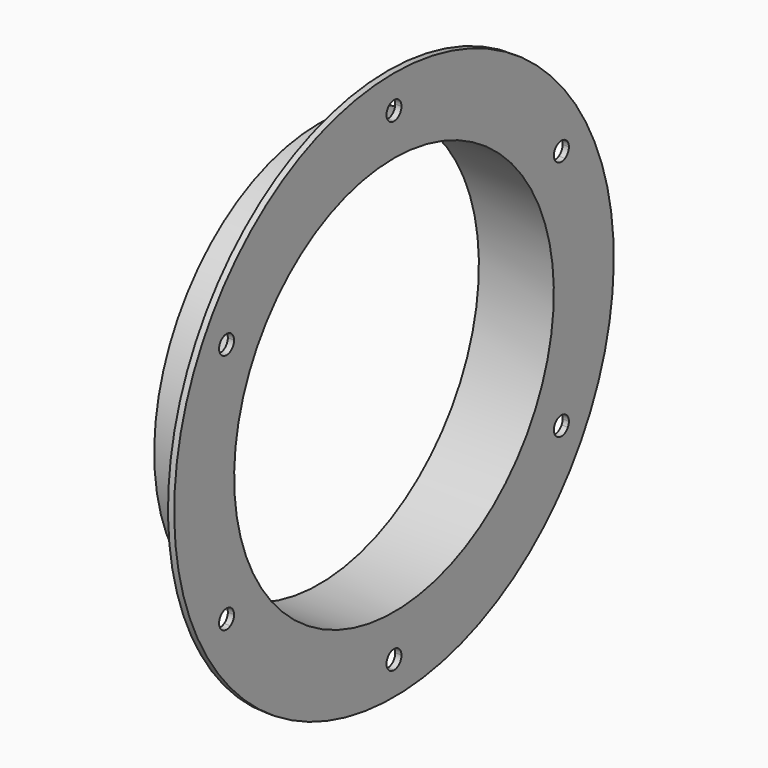
from build123d import *

# Parameters (mm, degrees)
F3_DEPTH = 25.4


with BuildPart() as f1:
    # F0 (on Front) → F1 (revolve)
    with BuildSketch(Plane.XZ):
        Polygon((-38.1, 101.6), (0, 101.6), (0, 139.7), (-3.175, 139.7), (-3.175, 104.775), (-38.1, 104.775), align=None)
    revolve(axis=Axis((-40.6781, 0, 0), (-1, 0, 0)))

    # F2 (on Right) → F3 (cut)
    with BuildSketch(Plane.YZ):
        with BuildLine():
            Line((-110.5365962259, 63.8183335863), (-106.4121502404, 61.4370835863))
            ThreePointArc((-106.4121502404, 61.4370835863), (-105.201540854, 63.4877685883), (-103.951417404, 65.5146073641))
            ThreePointArc((-103.951417404, 65.5146073641), (-107.6001407887, 66.0490337928), (-110.5365962259, 63.8183335863))
        make_face()
        with BuildLine():
            ThreePointArc((-108.7130229983, 57.2672645493), (-107.582790854, 59.3633226027), (-106.4121502404, 61.4370835863))
            Line((-106.4121502404, 61.4370835863), (-110.5365962259, 63.8183335863))
            ThreePointArc((-110.5365962259, 63.8183335863), (-111.0002115544, 60.1599384774), (-108.7130229983, 57.2672645493))
        make_face()
        with BuildLine():
            ThreePointArc((-108.7130229983, 57.2672645493), (-105.1350051315, 56.8490222724), (-102.2877042549, 59.0558335863))
            Line((-102.2877042549, 59.0558335863), (-106.4121502404, 61.4370835863))
            ThreePointArc((-106.4121502404, 61.4370835863), (-107.582790854, 59.3633226027), (-108.7130229983, 57.2672645493))
        make_face()
        with BuildLine():
            Line((-106.4121502404, 61.4370835863), (-102.2877042549, 59.0558335863))
            ThreePointArc((-102.2877042549, 59.0558335863), (-101.8119284927, 60.204457884), (-101.6496502404, 61.4370835863))
            ThreePointArc((-101.6496502404, 61.4370835863), (-102.2648230057, 63.7782548869), (-103.951417404, 65.5146073641))
            ThreePointArc((-103.951417404, 65.5146073641), (-105.201540854, 63.4877685883), (-106.4121502404, 61.4370835863))
        make_face()
        with BuildLine():
            Line((-110.5365962259, -63.8183335863), (-106.4121502404, -61.4370835863))
            ThreePointArc((-106.4121502404, -61.4370835863), (-107.582790854, -59.3633226027), (-108.7130229983, -57.2672645493))
            ThreePointArc((-108.7130229983, -57.2672645493), (-111.0002115544, -60.1599384774), (-110.5365962259, -63.8183335863))
        make_face()
        with BuildLine():
            Line((-106.4121502404, -61.4370835863), (-102.2877042549, -59.0558335863))
            ThreePointArc((-102.2877042549, -59.0558335863), (-105.1350051315, -56.8490222724), (-108.7130229983, -57.2672645493))
            ThreePointArc((-108.7130229983, -57.2672645493), (-107.582790854, -59.3633226027), (-106.4121502404, -61.4370835863))
        make_face()
        with BuildLine():
            ThreePointArc((-101.6496502404, -61.4370835863), (-101.8119284927, -60.204457884), (-102.2877042549, -59.0558335863))
            Line((-102.2877042549, -59.0558335863), (-106.4121502404, -61.4370835863))
            ThreePointArc((-106.4121502404, -61.4370835863), (-105.201540854, -63.4877685883), (-103.951417404, -65.5146073641))
            ThreePointArc((-103.951417404, -65.5146073641), (-102.2648230057, -63.7782548869), (-101.6496502404, -61.4370835863))
        make_face()
        with BuildLine():
            ThreePointArc((-103.951417404, -65.5146073641), (-105.201540854, -63.4877685883), (-106.4121502404, -61.4370835863))
            Line((-106.4121502404, -61.4370835863), (-110.5365962259, -63.8183335863))
            ThreePointArc((-110.5365962259, -63.8183335863), (-107.6001407887, -66.0490337928), (-103.951417404, -65.5146073641))
        make_face()
        with BuildLine():
            ThreePointArc((4.7625, -122.8741671727), (4.7622763933, -122.8280173762), (4.7616055942, -122.7818719133))
            ThreePointArc((4.7616055942, -122.7818719133), (2.38125, -122.851091191), (0, -122.8741671727))
            Line((0, -122.8741671727), (0, -127.6366671727))
            ThreePointArc((0, -127.6366671727), (3.3675960454, -126.2417632181), (4.7625, -122.8741671727))
        make_face()
        with BuildLine():
            ThreePointArc((4.7616055942, -122.7818719133), (3.3348050976, -119.474096407), (0, -118.1116671727))
            Line((0, -118.1116671727), (0, -122.8741671727))
            ThreePointArc((0, -122.8741671727), (2.38125, -122.851091191), (4.7616055942, -122.7818719133))
        make_face()
        with BuildLine():
            Line((0, -122.8741671727), (0, -118.1116671727))
            ThreePointArc((0, -118.1116671727), (-3.3348050976, -119.474096407), (-4.7616055942, -122.7818719133))
            ThreePointArc((-4.7616055942, -122.7818719133), (-2.38125, -122.851091191), (0, -122.8741671727))
        make_face()
        with BuildLine():
            Line((0, -127.6366671727), (0, -122.8741671727))
            ThreePointArc((0, -122.8741671727), (-2.38125, -122.851091191), (-4.7616055942, -122.7818719133))
            ThreePointArc((-4.7616055942, -122.7818719133), (-3.4000707656, -126.2089722702), (0, -127.6366671727))
        make_face()
        with BuildLine():
            ThreePointArc((106.4121502404, -61.4370835863), (107.582790854, -59.3633226027), (108.7130229983, -57.2672645493))
            ThreePointArc((108.7130229983, -57.2672645493), (105.1350051315, -56.8490222724), (102.2877042549, -59.0558335863))
            Line((102.2877042549, -59.0558335863), (106.4121502404, -61.4370835863))
        make_face()
        with BuildLine():
            ThreePointArc((111.1746502404, -61.4370835863), (110.5133276786, -59.0159784936), (108.7130229983, -57.2672645493))
            ThreePointArc((108.7130229983, -57.2672645493), (107.582790854, -59.3633226027), (106.4121502404, -61.4370835863))
            Line((106.4121502404, -61.4370835863), (110.5365962259, -63.8183335863))
            ThreePointArc((110.5365962259, -63.8183335863), (111.0123719881, -62.6697092886), (111.1746502404, -61.4370835863))
        make_face()
        with BuildLine():
            Line((110.5365962259, -63.8183335863), (106.4121502404, -61.4370835863))
            ThreePointArc((106.4121502404, -61.4370835863), (105.201540854, -63.4877685883), (103.951417404, -65.5146073641))
            ThreePointArc((103.951417404, -65.5146073641), (107.6001407887, -66.0490337928), (110.5365962259, -63.8183335863))
        make_face()
        with BuildLine():
            ThreePointArc((103.951417404, -65.5146073641), (105.201540854, -63.4877685883), (106.4121502404, -61.4370835863))
            Line((106.4121502404, -61.4370835863), (102.2877042549, -59.0558335863))
            ThreePointArc((102.2877042549, -59.0558335863), (101.8002000339, -62.6250741347), (103.951417404, -65.5146073641))
        make_face()
        with BuildLine():
            ThreePointArc((103.951417404, 65.5146073641), (105.201540854, 63.4877685883), (106.4121502404, 61.4370835863))
            Line((106.4121502404, 61.4370835863), (110.5365962259, 63.8183335863))
            ThreePointArc((110.5365962259, 63.8183335863), (107.6001407887, 66.0490337928), (103.951417404, 65.5146073641))
        make_face()
        with BuildLine():
            ThreePointArc((106.4121502404, 61.4370835863), (107.582790854, 59.3633226027), (108.7130229983, 57.2672645493))
            ThreePointArc((108.7130229983, 57.2672645493), (110.5133276786, 59.0159784936), (111.1746502404, 61.4370835863))
            ThreePointArc((111.1746502404, 61.4370835863), (111.0123719881, 62.6697092886), (110.5365962259, 63.8183335863))
            Line((110.5365962259, 63.8183335863), (106.4121502404, 61.4370835863))
        make_face()
        with BuildLine():
            ThreePointArc((102.2877042549, 59.0558335863), (105.1350051315, 56.8490222724), (108.7130229983, 57.2672645493))
            ThreePointArc((108.7130229983, 57.2672645493), (107.582790854, 59.3633226027), (106.4121502404, 61.4370835863))
            Line((106.4121502404, 61.4370835863), (102.2877042549, 59.0558335863))
        make_face()
        with BuildLine():
            Line((102.2877042549, 59.0558335863), (106.4121502404, 61.4370835863))
            ThreePointArc((106.4121502404, 61.4370835863), (105.201540854, 63.4877685883), (103.951417404, 65.5146073641))
            ThreePointArc((103.951417404, 65.5146073641), (101.8002000339, 62.6250741347), (102.2877042549, 59.0558335863))
        make_face()
        with BuildLine():
            ThreePointArc((0, 122.8741671727), (2.38125, 122.851091191), (4.7616055942, 122.7818719133))
            ThreePointArc((4.7616055942, 122.7818719133), (4.7622763933, 122.8280173762), (4.7625, 122.8741671727))
            ThreePointArc((4.7625, 122.8741671727), (3.3675960454, 126.2417632181), (0, 127.6366671727))
            Line((0, 127.6366671727), (0, 122.8741671727))
        make_face()
        with BuildLine():
            ThreePointArc((-4.7616055942, 122.7818719133), (-2.38125, 122.851091191), (0, 122.8741671727))
            Line((0, 122.8741671727), (0, 127.6366671727))
            ThreePointArc((0, 127.6366671727), (-3.4000707656, 126.2089722702), (-4.7616055942, 122.7818719133))
        make_face()
        with BuildLine():
            ThreePointArc((-4.7616055942, 122.7818719133), (-3.3348050976, 119.474096407), (0, 118.1116671727))
            Line((0, 118.1116671727), (0, 122.8741671727))
            ThreePointArc((0, 122.8741671727), (-2.38125, 122.851091191), (-4.7616055942, 122.7818719133))
        make_face()
        with BuildLine():
            ThreePointArc((0, 118.1116671727), (3.3348050976, 119.474096407), (4.7616055942, 122.7818719133))
            ThreePointArc((4.7616055942, 122.7818719133), (2.38125, 122.851091191), (0, 122.8741671727))
            Line((0, 122.8741671727), (0, 118.1116671727))
        make_face()
    extrude(amount=-F3_DEPTH, mode=Mode.SUBTRACT)


solid = f1.part
